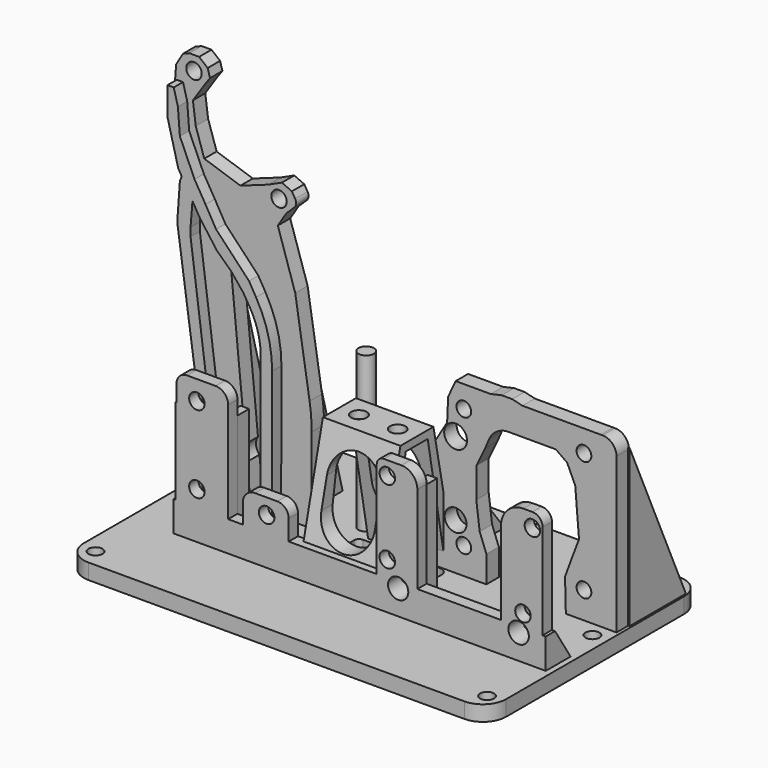
from build123d import *

# Parameters (mm, degrees)
SKETCH034_R         = 1.8
PAD021_DEPTH        = 4
SKETCH035_R         = 2
PAD022_DEPTH        = 3
SKETCH250_W         = 2.189945
SKETCH250_H         = 6.926142
SKETCH250_W_2       = 1.393189
SKETCH250_W_3       = 1.835583
SKETCH250_W_4       = 2.416692
PAD055_DEPTH        = 30
SKETCH037_R         = 1.9
PAD023_DEPTH        = 4
PAD051_DEPTH        = 2
SKETCH038_R         = 2
PAD024_DEPTH        = 4
PAD025_DEPTH        = 96
PAD043_DEPTH        = 20
POCKET016_DEPTH     = 48.786156
POCKET005_DEPTH     = 9
SKETCH068_R         = 2
POCKET015_DEPTH     = 66.714928
SKETCH244_R         = 2.893788
SKETCH244_R_2       = 3.136901
SKETCH244_R_3       = 2.944903
SKETCH244_R_4       = 2.820892
POCKET020_DEPTH     = 34.786156
SKETCH245_R         = 2.635904
SKETCH245_R_2       = 2.609555
POCKET021_DEPTH     = 9
PAD052_DEPTH        = 3
PAD053_DEPTH        = 1.5
PAD054_DEPTH        = 1.5
SKETCH251_R         = 2
PAD056_DEPTH        = 40
LINEARPATTERN_COUNT = 2
LINEARPATTERN_PITCH = 16


with BuildPart() as part:
    # Sketch034 → Pad021 (new body)
    with BuildSketch(Plane.XY):
        with BuildLine():
            Line((-63.472122, 48.785156), (33.4761, 48.785156))
            ThreePointArc((39.4761, 42.785156), (37.71874, 47.027797), (33.4761, 48.785156))
            Line((39.4761, 42.785156), (39.4761, -14.614001))
            ThreePointArc((33.4761, -20.614001), (37.71874, -18.856642), (39.4761, -14.614001))
            Line((33.4761, -20.614001), (-63.472122, -20.614001))
            ThreePointArc((-69.472122, -14.614001), (-67.714763, -18.856642), (-63.472122, -20.614001))
            Line((-69.472122, -14.614001), (-69.472122, 42.785156))
            ThreePointArc((-63.472122, 48.785156), (-67.714763, 47.027797), (-69.472122, 42.785156))
        make_face()
        with Locations((35.602358, 18.060384)):
            Circle(SKETCH034_R, mode=Mode.SUBTRACT)
        with Locations((35.602358, -15.939616)):
            Circle(SKETCH034_R, mode=Mode.SUBTRACT)
        with Locations((-65.397642, -15.939616)):
            Circle(SKETCH034_R, mode=Mode.SUBTRACT)
        with Locations((-65.397642, 18.060384)):
            Circle(SKETCH034_R, mode=Mode.SUBTRACT)
        with BuildLine():
            Line((-26.463117, 21.685369), (-6.647653, 21.685369))
            ThreePointArc((-4.57506, 19.612776), (-5.182108, 21.078321), (-6.647653, 21.685369))
            Line((-4.57506, 19.612776), (-4.57506, 10.378101))
            ThreePointArc((-5.793256, 9.159905), (-4.931861, 9.516706), (-4.57506, 10.378101))
            Line((-5.793256, 9.159905), (-26.400612, 9.159905))
            ThreePointArc((-27.765776, 10.525069), (-27.365929, 9.559752), (-26.400612, 9.159905))
            Line((-27.765776, 10.525069), (-27.765776, 20.38271))
            ThreePointArc((-26.463117, 21.685369), (-27.384236, 21.303829), (-27.765776, 20.38271))
        make_face(mode=Mode.SUBTRACT)
    extrude(amount=-PAD021_DEPTH)

    # Sketch035 → Pad022 (join)
    with BuildSketch(Plane.XZ):
        with BuildLine():
            Line((-54.552196, 37.016185), (-47.176468, 37.016185))
            ThreePointArc((-43.939041, 33.778758), (-44.887261, 36.067965), (-47.176468, 37.016185))
            Line((-43.939041, 33.778758), (-43.939041, 0))
            Line((-43.939041, 0), (-57.262416, 0))
            Line((-57.262416, 0), (-57.262416, 34.305965))
            ThreePointArc((-54.552196, 37.016185), (-56.468611, 36.22238), (-57.262416, 34.305965))
        make_face()
        with Locations((-52, 32)):
            Circle(SKETCH035_R, mode=Mode.SUBTRACT)
        with Locations((-52, 12)):
            Circle(SKETCH035_R, mode=Mode.SUBTRACT)
        with BuildLine():
            Line((-36.985118, 15.988397), (-31.266687, 15.988397))
            ThreePointArc((-28.315876, 13.037586), (-29.180149, 15.124124), (-31.266687, 15.988397))
            Line((-28.315876, 13.037586), (-28.315876, 0))
            Line((-28.315876, 0), (-40.15414, 0))
            Line((-40.15414, 0), (-40.15414, 12.819375))
            ThreePointArc((-36.985118, 15.988397), (-39.225955, 15.060212), (-40.15414, 12.819375))
        make_face()
        with Locations((-34, 12)):
            Circle(SKETCH035_R, mode=Mode.SUBTRACT)
        with BuildLine():
            Line((-5.60826, 0), (4.873492, 0))
            Line((4.873492, 0), (4.873492, 30.445396))
            ThreePointArc((4.873492, 30.445396), (3.665023, 33.362897), (0.747522, 34.571366))
            Line((0.747522, 34.571366), (-3.758246, 34.571366))
            ThreePointArc((-3.758246, 34.571366), (-5.066403, 34.029509), (-5.60826, 32.721352))
            Line((-5.60826, 32.721352), (-5.60826, 0))
        make_face()
        with Locations((-2.884565, 31)):
            Circle(SKETCH035_R, mode=Mode.SUBTRACT)
        with Locations((-2.884565, 12)):
            Circle(SKETCH035_R, mode=Mode.SUBTRACT)
        with BuildLine():
            Line((26.451264, 0), (37.200779, 0))
            Line((37.200779, 0), (37.200779, 32.341377))
            ThreePointArc((37.200779, 32.341377), (36.427204, 34.208953), (34.559628, 34.982528))
            Line((34.559628, 34.982528), (32.186752, 34.982528))
            ThreePointArc((32.186752, 34.982528), (28.13115, 33.302642), (26.451264, 29.24704))
            Line((26.451264, 29.24704), (26.451264, 0))
        make_face()
        with Locations((34.559628, 31.350485)):
            Circle(SKETCH035_R, mode=Mode.SUBTRACT)
        with Locations((32.126083, 11.13677)):
            Circle(SKETCH035_R, mode=Mode.SUBTRACT)
    extrude(amount=-PAD022_DEPTH)

    # Sketch250 → Pad055 (join)
    with BuildSketch(Plane.XY):
        with Locations((-45.173284, 3.463071)):
            Rectangle(SKETCH250_W, SKETCH250_H)
        with Locations((-56.766689, 3.463071)):
            Rectangle(SKETCH250_W_2, SKETCH250_H)
        with Locations((27.642155, 3.463071)):
            Rectangle(SKETCH250_W_3, SKETCH250_H)
        with Locations((3.216909, 3.463071)):
            Rectangle(SKETCH250_W_4, SKETCH250_H)
    extrude(amount=PAD055_DEPTH)

    # Sketch037 → Pad023 (join)
    with BuildSketch(Plane.XZ.offset(-26)):
        with BuildLine():
            Line((25.932827, 34.40421), (23.019402, 36.49115))
            Line((23.019402, 36.49115), (10.778817, 36.49115))
            ThreePointArc((10.778817, 36.49115), (7.804584, 35.602727), (5.804906, 33.228564))
            Line((5.804906, 33.228564), (4.767415, 30.839658))
            Line((4.767415, 30.839658), (2.481655, 26.11157))
            Line((2.481655, 26.11157), (2.481655, 18.385231))
            Line((2.481655, 18.385231), (3.349965, 11.423))
            Line((3.349965, 11.423), (5.085924, 6.901752))
            Line((5.085924, 6.901752), (5.085924, 0))
            Line((5.085924, 0), (-9.142002, 0))
            Line((-9.142002, 0), (-9.142002, 26.611908))
            Line((-9.142002, 26.611908), (-5.042762, 33.486))
            Line((-5.042762, 33.486), (-4.784223, 39.424525))
            Line((-4.784223, 39.424525), (-2.841476, 43.601639))
            Line((-2.841476, 43.601639), (6.206129, 43.601639))
            Line((6.206129, 43.601639), (9.03623, 44.24178))
            Line((9.03623, 44.24178), (11.765254, 44.24178))
            Line((11.765254, 44.24178), (14.3932, 43.601639))
            Line((14.3932, 43.601639), (34.61335, 43.601639))
            Line((34.61335, 43.601639), (35.064022, 43.601516))
            ThreePointArc((38.666489, 39.998062), (37.611411, 42.54574), (35.064022, 43.601516))
            Line((38.666489, 39.998062), (38.666489, 0))
            Line((38.666489, 0), (25.582582, 0))
            Line((25.582582, 0), (25.375277, 8.37561))
            Line((25.375277, 8.37561), (27.096754, 13.04639))
            Line((27.096754, 13.04639), (28.984413, 18.029819))
            Line((28.984413, 18.029819), (27.998579, 29.910338))
            Line((27.998579, 29.910338), (25.932827, 34.40421))
        make_face()
        with Locations((30.26034, 37.939699)):
            Circle(SKETCH037_R, mode=Mode.SUBTRACT)
        with Locations((-0.73966, 6.939699)):
            Circle(SKETCH037_R, mode=Mode.SUBTRACT)
        with Locations((-0.73966, 37.939699)):
            Circle(SKETCH037_R, mode=Mode.SUBTRACT)
        with Locations((30.26034, 6.939699)):
            Circle(SKETCH037_R, mode=Mode.SUBTRACT)
    extrude(amount=PAD023_DEPTH)

    # Sketch241 → Pad051 (join)
    with BuildSketch(Plane.YZ.offset(-45)):
        Polygon((22.631149, -0.06403), (35.761688, -0.06403), (22.739737, 49.266689), (21.15008, 49.266689), (21.15008, 0), align=None)
    pad051 = extrude(amount=PAD051_DEPTH)

    # Sketch038 → Pad024 (join)
    with BuildSketch(Plane.XZ.offset(-23)):
        with BuildLine():
            Line((-48.472016, 0), (-48.472016, 26.220912))
            ThreePointArc((-48.472016, 26.220912), (-48.815814, 32.17837), (-49.842643, 38.056732))
            Line((-51.256079, 44.077633), (-49.842643, 38.056732))
            ThreePointArc((-51.256079, 44.077633), (-52.598606, 47.805362), (-54.756321, 51.128404))
            Line((-57.437828, 54.370771), (-54.756321, 51.128404))
            Line((-57.437828, 54.370771), (-57.820797, 53.994532))
            Line((-58.023251, 53.513704), (-57.820797, 53.994532))
            Line((-58.225704, 53.134103), (-58.023251, 53.513704))
            Line((-58.392033, 52.392044), (-58.225704, 53.134103))
            Line((-53.309242, 0), (-58.392033, 52.392044))
            Line((-61.577202, 0), (-53.309242, 0))
            Line((-72.51223, 79.296928), (-61.577202, 0))
            Line((-72.51223, 79.296928), (-73.163025, 85.852085))
            Line((-73.163025, 85.852085), (-72.559875, 94.095062))
            Line((-72.559875, 94.095062), (-70.800705, 97.06052))
            Line((-70.800705, 97.06052), (-69.142059, 97.713928))
            Line((-69.142059, 97.713928), (-66.62896, 97.713928))
            Line((-66.62896, 97.713928), (-64.417427, 95.904495))
            Line((-64.417427, 95.904495), (-63.814281, 93.793491))
            Line((-63.814281, 93.793491), (-65.020569, 92.134838))
            Line((-65.020569, 92.134838), (-68.237343, 87.309685))
            Line((-68.237343, 87.309685), (-67.502732, 81.730595))
            Line((-67.502732, 81.730595), (-65.301224, 75.024052))
            Line((-65.301224, 75.024052), (-55.968635, 71.92442))
            Line((-55.968635, 71.92442), (-48.785927, 74.492863))
            Line((-48.785927, 74.492863), (-45.267582, 76.101246))
            Line((-45.267582, 76.101246), (-42.70422, 74.945221))
            Line((-42.70422, 74.945221), (-41.842577, 73.527676))
            ThreePointArc((-42.110184, 71.449906), (-41.612242, 72.441892), (-41.842577, 73.527676))
            Line((-42.110184, 71.449906), (-44.161819, 69.466658))
            Line((-44.161819, 69.466658), (-46.323086, 65.998575))
            Line((-46.323086, 65.998575), (-41.831047, 52.129716))
            Line((-41.831047, 52.129716), (-38.122783, 28.773774))
            ThreePointArc((-37.586531, 21.97646), (-37.720802, 25.385677), (-38.122783, 28.773774))
            Line((-37.586531, 21.97646), (-37.586531, 0))
            Line((-37.586531, 0), (-48.472016, 0))
        make_face()
        with Locations((-67.949097, 94.088432)):
            Circle(SKETCH038_R, mode=Mode.SUBTRACT)
        with Locations((-46.014881, 72.181824)):
            Circle(SKETCH038_R, mode=Mode.SUBTRACT)
    extrude(amount=PAD024_DEPTH)

    # Sketch039 → Pad025 (join)
    with BuildSketch(Plane.YZ.offset(38)):
        Polygon((0, 0), (0, 7.813576), (3, 7.813576), (8, 0), align=None)
    extrude(amount=-PAD025_DEPTH)

    # Sketch067 → Pad043 (join)
    with BuildSketch(Plane.YZ.offset(-6)):
        Polygon((0, 0), (8.137191, 33.5), (18.775084, 33.5), (25.480677, 0), (22.719245, 0), (16.926661, 31.5), (9.818877, 31.5), (5, 0), align=None)
    extrude(amount=-PAD043_DEPTH)

    # Sketch069 → Pocket016 (cut, through all)
    with BuildSketch(Plane.XZ):
        with BuildLine():
            ThreePointArc((-9.027118, 22.447197), (-15.925145, 29.345224), (-22.823172, 22.447197))
            Line((-22.823172, 22.447197), (-22.823172, 15.120077))
            ThreePointArc((-22.823172, 15.120077), (-15.925145, 8.22205), (-9.027118, 15.120077))
            Line((-9.027118, 22.447197), (-9.027118, 15.120077))
        make_face()
    extrude(amount=-POCKET016_DEPTH, mode=Mode.SUBTRACT)

    # Sketch043 → Pocket005 (cut)
    with BuildSketch(Plane.XY.offset(36)):
        with BuildLine():
            ThreePointArc((-20.2, 1.5), (-22, 3.3), (-23.8, 1.5))
            Line((-23.8, 1.5), (-23.8, -1.5))
            ThreePointArc((-23.8, -1.5), (-22, -3.3), (-20.2, -1.5))
            Line((-20.2, 1.5), (-20.2, -1.5))
        make_face()
        with BuildLine():
            ThreePointArc((-8.2, 1.5), (-10, 3.3), (-11.8, 1.5))
            Line((-11.8, 1.5), (-11.8, -1.5))
            ThreePointArc((-11.8, -1.5), (-10, -3.3), (-8.2, -1.5))
            Line((-8.2, 1.5), (-8.2, -1.5))
        make_face()
    extrude(amount=-POCKET005_DEPTH, mode=Mode.SUBTRACT)

    # Sketch068 → Pocket015 (cut, through all)
    with BuildSketch(Plane.XY.offset(31)):
        with Locations((-21, 13.5)):
            Circle(SKETCH068_R)
        with Locations((-11, 13.5)):
            Circle(SKETCH068_R)
    extrude(amount=POCKET015_DEPTH, mode=Mode.SUBTRACT)

    # Sketch244 → Pocket020 (cut, through all)
    with BuildSketch(Plane.XZ.offset(-14)):
        with Locations((-52.064857, 32.028606)):
            Circle(SKETCH244_R)
        with Locations((-52.020828, 11.963312)):
            Circle(SKETCH244_R_2)
        with Locations((-2.857643, 31.0397)):
            Circle(SKETCH244_R_3)
        with Locations((-2.857673, 12.005564)):
            Circle(SKETCH244_R_4)
    extrude(amount=-POCKET020_DEPTH, mode=Mode.SUBTRACT)

    # Sketch245 → Pocket021 (cut)
    with BuildSketch(Plane.XZ):
        with Locations((30.996767, 6.396561)):
            Circle(SKETCH245_R)
        with Locations((-0.070582, 6.351746)):
            Circle(SKETCH245_R_2)
    extrude(amount=-POCKET021_DEPTH, mode=Mode.SUBTRACT)

    # Sketch247 → Pad052 (join)
    with BuildSketch(Plane.XZ.offset(-19)):
        with BuildLine():
            Line((-72.390808, 90.639076), (-70.773613, 90.639076))
            Line((-70.773613, 90.639076), (-69.698715, 86.604225))
            Line((-69.698715, 86.604225), (-69.192055, 80.066734))
            Line((-69.192055, 80.066734), (-65.406921, 71.518219))
            Line((-65.406921, 71.518219), (-62.576828, 66.734016))
            Line((-62.576828, 66.734016), (-59.843533, 61.966404))
            Line((-59.843533, 61.966404), (-51.353092, 52.991028))
            Line((-51.353092, 52.991028), (-49.537147, 49.875465))
            ThreePointArc((-45.388881, 34.453489), (-46.43545, 42.440875), (-49.537147, 49.875465))
            Line((-45.388881, 34.453489), (-45.464951, -0.224606))
            Line((-45.464951, -0.224606), (-48.344852, -0.224606))
            Line((-48.344852, -0.224606), (-48.344852, 37.007967))
            ThreePointArc((-48.344852, 37.007967), (-49.057809, 42.227752), (-51.14445, 47.065148))
            Line((-51.14445, 47.065148), (-52.840546, 49.875576))
            Line((-52.840546, 49.875576), (-55.934738, 53.688236))
            Line((-55.934738, 53.688236), (-59.619972, 57.174271))
            Line((-59.619972, 57.174271), (-63.999415, 63.12226))
            Line((-63.999415, 63.12226), (-65.940145, 66.405881))
            Line((-65.940145, 66.405881), (-66.43586, 60.317795))
            Line((-66.43586, 60.317795), (-66.43586, 58.177586))
            Line((-66.43586, 58.177586), (-58.816422, 0))
            Line((-58.816422, 0), (-61.38364, 0))
            Line((-61.38364, 0), (-69.870461, 60.355804))
            Line((-69.870461, 60.355804), (-69.195595, 69.836077))
            Line((-69.195595, 69.836077), (-68.729381, 71.125134))
            Line((-68.729381, 71.125134), (-69.609896, 72.614923))
            Line((-69.609896, 72.614923), (-72.394051, 83.403511))
            Line((-72.394051, 83.403511), (-72.390808, 90.639076))
        make_face()
    extrude(amount=PAD052_DEPTH)

    # Sketch248 → Pad053 (join)
    with BuildSketch(Plane.YZ.offset(39)):
        Polygon((25.768255, 40.531118), (43.940563, 0), (25.768255, 0), align=None)
    extrude(amount=-PAD053_DEPTH)

    # Sketch249 → Pad054 (join)
    with BuildSketch(Plane.YZ.offset(-9)):
        Polygon((24.950781, 24.373611), (24.950781, -0.062191), (43.644836, -0.062191), align=None)
    extrude(amount=PAD054_DEPTH)

    # Sketch251 → Pad056 (join)
    with BuildSketch(Plane.XY):
        with Locations((-29.443272, 26.409567)):
            Circle(SKETCH251_R)
    extrude(amount=PAD056_DEPTH)

    # LinearPattern: Pad051 ×2
    with Locations(*[(-i * LINEARPATTERN_PITCH, 0, 0) for i in range(1, LINEARPATTERN_COUNT)]):
        add(pad051)


with BuildPart() as part_1:
    # Body010 placement: moved
    add(part.part.moved(Location((0, 2, -42))))


solid = part_1.part
